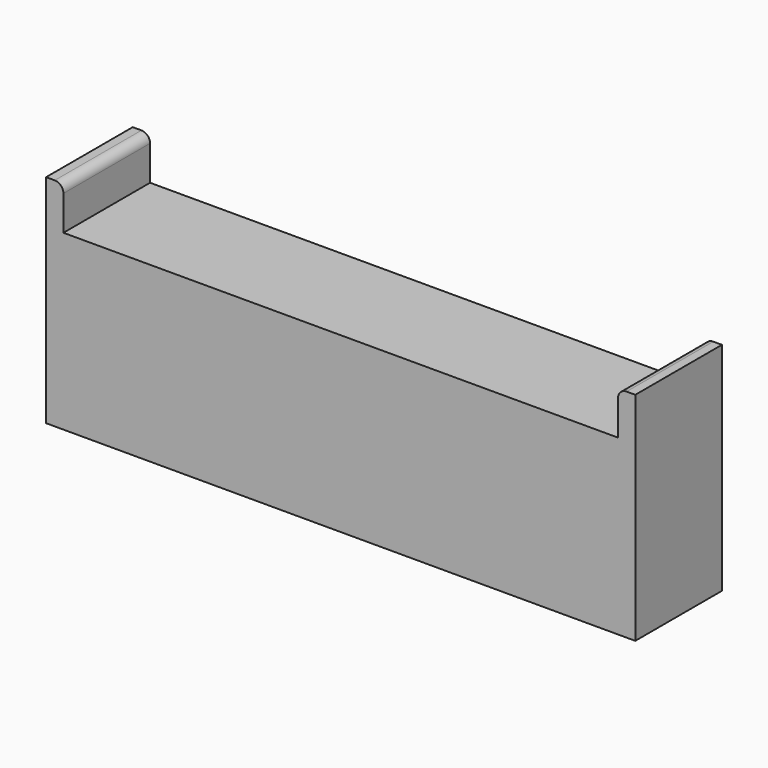
from build123d import *

# Parameters (mm, degrees)
F0_W     = 136
F0_H     = 50
F1_DEPTH = 25
F2_W     = 128
F2_H     = 10
F3_DEPTH = 25.001
F4_R     = 2


with BuildPart() as f1:
    # F0 (on Front) → F1 (new body)
    with BuildSketch(Plane.XZ):
        Rectangle(F0_W, F0_H)
    extrude(amount=F1_DEPTH)

    # F2 (on face) → F3 (cut, through all)
    with BuildSketch(Plane.XZ.offset(25)):
        with Locations((0, 20)):
            Rectangle(F2_W, F2_H)
    extrude(amount=-F3_DEPTH, mode=Mode.SUBTRACT)

    # F4
    f4_edges = [f1.edges().sort_by_distance(p)[0] for p in [
        (-64, -12.5, 25),
        (64, -12.5, 25),
    ]]
    fillet(f4_edges, radius=F4_R)


solid = f1.part
